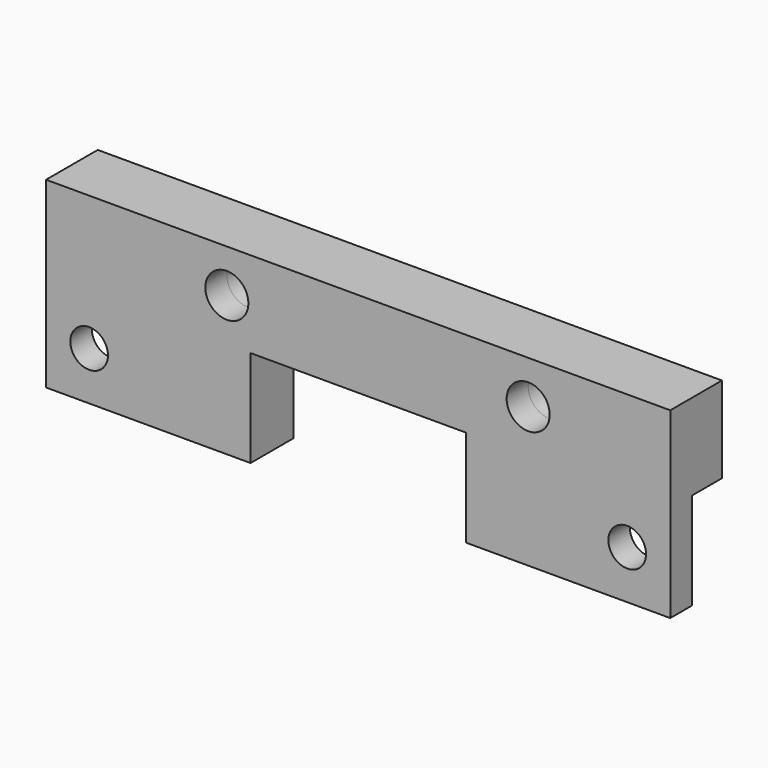
from build123d import *

# Parameters (mm, degrees)
F0_R     = 2
F0_W     = 8
F0_H     = 9
F0_R_2   = 1.75
F0_W_2   = 11
F1_DEPTH = 2.5
F2_DEPTH = 2.5
F3_DEPTH = 3.5


with BuildPart() as f1:
    # F0 (on Front) → F1 (new body)
    with BuildSketch(Plane.XZ):
        Polygon((-62.011425, 28.630727), (-62.011425, 20.630727), (-54.011425, 20.630727), (-43.011425, 20.630727), (-23.011425, 20.630727), (-12.011425, 20.630727), (-4.011425, 20.630727), (-4.011425, 28.630727), align=None)
        with Locations((-45.215137, 24.630727)):
            Circle(F0_R, mode=Mode.SUBTRACT)
        with Locations((-17.215137, 24.630727)):
            Circle(F0_R, mode=Mode.SUBTRACT)
        with Locations((-58.011425, 16.130727)):
            Rectangle(F0_W, F0_H)
        with Locations((-58.011425, 16.130727)):
            Circle(F0_R_2, mode=Mode.SUBTRACT)
        with Locations((-48.511425, 16.130727)):
            Rectangle(F0_W_2, F0_H)
        with Locations((-17.511425, 16.130727)):
            Rectangle(F0_W_2, F0_H)
        with Locations((-8.011425, 16.130727)):
            Rectangle(F0_W, F0_H)
        with Locations((-8.011425, 16.130727)):
            Circle(F0_R_2, mode=Mode.SUBTRACT)
    extrude(amount=F1_DEPTH)

    # F0 (on Front) → F2 (join)
    with BuildSketch(Plane.XZ):
        with Locations((-48.511425, 16.130727)):
            Rectangle(F0_W_2, F0_H)
        with Locations((-17.511425, 16.130727)):
            Rectangle(F0_W_2, F0_H)
    extrude(amount=-F2_DEPTH)

    # F0 (on Front) → F3 (join)
    with BuildSketch(Plane.XZ):
        Polygon((-62.011425, 28.630727), (-62.011425, 20.630727), (-54.011425, 20.630727), (-43.011425, 20.630727), (-23.011425, 20.630727), (-12.011425, 20.630727), (-4.011425, 20.630727), (-4.011425, 28.630727), align=None)
        with Locations((-45.215137, 24.630727)):
            Circle(F0_R, mode=Mode.SUBTRACT)
        with Locations((-17.215137, 24.630727)):
            Circle(F0_R, mode=Mode.SUBTRACT)
    extrude(amount=-F3_DEPTH)


solid = f1.part
